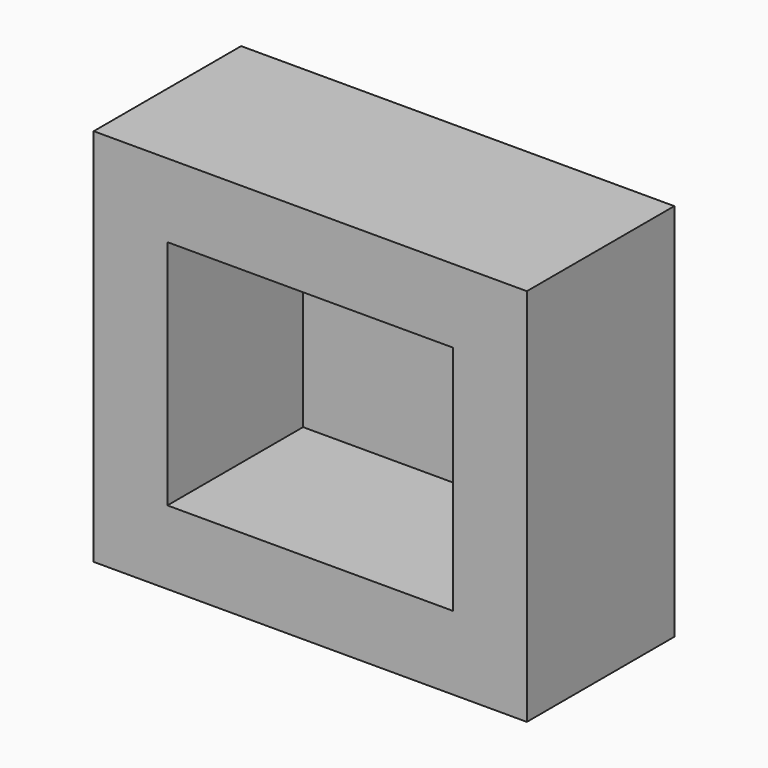
from build123d import *

# Parameters (mm, degrees)
F1_W     = 58.76257
F1_H     = 51.44095
F1_W_2   = 38.76257
F1_H_2   = 31.44095
F2_DEPTH = 25
F0_W     = 58.76257
F0_H     = 51.44095
F0_W_2   = 38.76257
F0_H_2   = 31.44095
F3_DEPTH = 2


with BuildPart() as f2:
    # F1 (on face) → F2 (new body)
    with BuildSketch(Plane.XZ):
        Rectangle(F1_W, F1_H)
        Rectangle(F1_W_2, F1_H_2, mode=Mode.SUBTRACT)
    extrude(amount=F2_DEPTH)

    # F0 (on Front) + F1 (on face) → F3 (join)
    with BuildSketch(Plane.XZ):
        Rectangle(F0_W, F0_H)
        Rectangle(F0_W_2, F0_H_2, mode=Mode.SUBTRACT)
    with BuildSketch(Plane.XZ):
        Rectangle(F1_W_2, F1_H_2)
    extrude(amount=F3_DEPTH)


solid = f2.part
